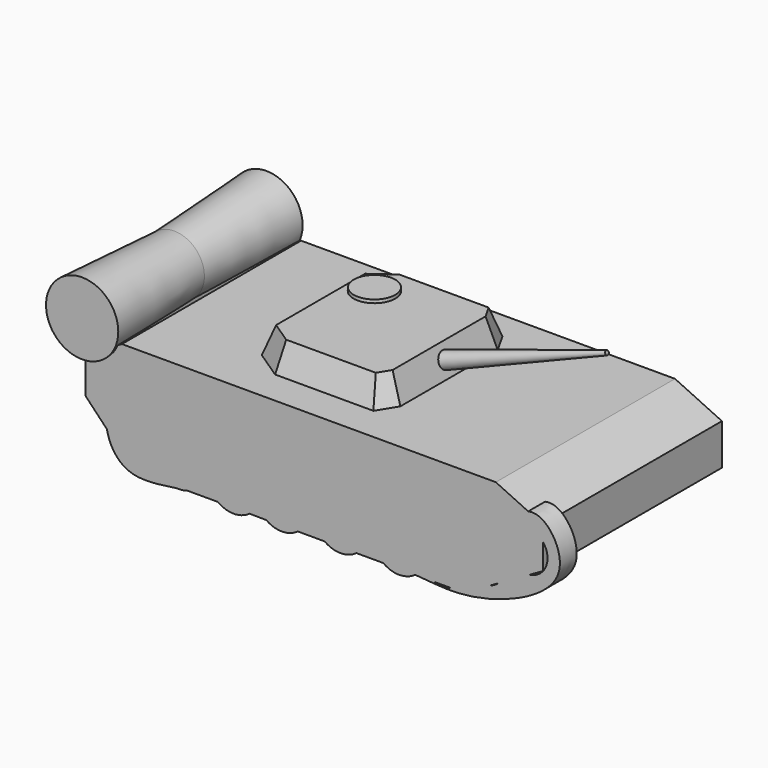
from build123d import *

# Parameters (mm, degrees)
F1_DEPTH  = 35.052
F4_DEPTH  = 8.636
F4_TAPER  = 20
F6_R      = 2.5473797884
F7_DEPTH  = 53.848
F7_TAPER  = 2
F8_R      = 9.4193845987
F9_DEPTH  = 36.068
F9_TAPER  = -3
F11_R     = 6.5429136155
F12_DEPTH = 1.016
F12_TAPER = 3
F14_R     = 6.4058769263
F15_DEPTH = 6.604


with BuildPart() as f1:
    # F0 (on Front) → F1 (new body, symmetric)
    with BuildSketch(Plane.XZ):
        Polygon((-27.3123774678, 0), (0, 0), (75.9697407484, 0), (100.7574498653, 14.0004679561), (100.7574498653, 26.8533546478), (86.0684290528, 33.7388291955), (-30.9846308082, 33.7388291955), (-42.4604192376, 26.8533546478), (-42.4604192376, 15.836596489), align=None)
    extrude(amount=F1_DEPTH, both=True)

    # F8 (on Front) → F9 (join, symmetric)
    with BuildSketch(Plane.XZ):
        with Locations((-42.62271896, 37.4420583248)):
            Circle(F8_R)
    extrude(amount=F9_DEPTH, both=True, taper=F9_TAPER)

    # F14 (on offset) → F15 (join)
    with BuildSketch(Plane.XZ.offset(35.052)):
        with BuildLine():
            ThreePointArc((-18.2914277318, 11.5336464741), (-18.238567493, 11.0237022138), (-18.2209195306, 10.5113293976))
            ThreePointArc((-18.2209195306, 10.5113293976), (-18.690216693, 7.9095667226), (-20.0389570113, 5.6357355069))
            ThreePointArc((-20.0389570113, 5.6357355069), (-17.8768605229, 1.5281653135), (-13.6524536622, -0.3956800012))
            add(Edge.make_bspline(
                [(-10.5050824736, 0), (-11.5477199799, -0.1099032554), (-12.6000289403, -0.2485209166), (-13.6524536622, -0.3956800012)],
                knots=[0.8894547449, 0.8894547449, 0.8894547449, 0.8894547449, 0.898296643, 0.898296643, 0.898296643, 0.898296643], degree=3))
            ThreePointArc((-10.5050824736, 0), (-7.0773531131, 2.6258490959), (-5.7778356714, 6.7435749806))
            ThreePointArc((-5.7778356714, 6.7435749806), (-10.3869168212, 13.4431042769), (-18.2914277318, 11.5336464741))
        make_face()
        with BuildLine():
            ThreePointArc((-20.0389570113, 5.6357355069), (-32.8074565022, 12.6268435661), (-18.2914277318, 11.5336464741))
            ThreePointArc((-18.2914277318, 11.5336464741), (-10.3869168212, 13.4431042769), (-5.7778356714, 6.7435749806))
            ThreePointArc((-5.7778356714, 6.7435749806), (-7.0773531131, 2.6258490959), (-10.5050824736, 0))
            add(Edge.make_bspline(
                [(-1.4377133298, 0.3632930094), (-4.360674288, 0.4004144231), (-7.3897049606, 0.3283884651), (-10.5050824736, 0)],
                knots=[0.8630353512, 0.8630353512, 0.8630353512, 0.8630353512, 0.8894547449, 0.8894547449, 0.8894547449, 0.8894547449], degree=3))
            ThreePointArc((-1.4377133298, 0.3632930094), (-1.1320375241, 13.372378396), (11.5408509223, 10.4181206688))
            ThreePointArc((11.5408509223, 10.4181206688), (20.9600888035, 14.9107300047), (27.4564847059, 6.7435749806))
            ThreePointArc((27.4564847059, 6.7435749806), (26.5572949313, 2.966608588), (24.0526490745, 0))
            add(Edge.make_bspline(
                [(32.4903987489, -0.0193167116), (29.5866199223, -0.0057281236), (26.7519183568, 0.012216448), (24.0526490745, 0)],
                knots=[0.7505457387, 0.7505457387, 0.7505457387, 0.7505457387, 0.7777542378, 0.7777542378, 0.7777542378, 0.7777542378], degree=3))
            ThreePointArc((32.4903987489, -0.0193167116), (33.6507739321, 14.2190238146), (45.8242892928, 6.7435749806))
            ThreePointArc((45.8242892928, 6.7435749806), (44.9250995182, 2.966608588), (42.4204536614, 0))
            add(Edge.make_bspline(
                [(50.6332553293, 0.1512836344), (47.927415051, 0.1101522639), (45.1762033046, 0.036614238), (42.4204536614, 0)],
                knots=[0.6948509829, 0.6948509829, 0.6948509829, 0.6948509829, 0.720052008, 0.720052008, 0.720052008, 0.720052008], degree=3))
            ThreePointArc((50.6332553293, 0.1512836344), (50.5277699262, 13.2516481983), (63.32628389, 10.4536633528))
            ThreePointArc((63.32628389, 10.4536633528), (69.0279887166, 13.9055593882), (75.1095131316, 11.1779074751))
            ThreePointArc((75.1095131316, 11.1779074751), (82.0466679625, 18.5321466628), (89.2645921606, 11.4532681182))
            ThreePointArc((89.2645921606, 11.4532681182), (84.513834766, 4.7672305336), (76.6369867203, 7.0537255085))
            ThreePointArc((76.6369867203, 7.0537255085), (76.6420160513, 6.8986864896), (76.6436927562, 6.7435749806))
            ThreePointArc((76.6436927562, 6.7435749806), (71.3938787613, -0.1686991502), (63.32628389, 3.0334866085))
            ThreePointArc((63.32628389, 3.0334866085), (62.2387569182, 1.3648978533), (60.788254523, 0))
            add(Edge.make_bspline(
                [(-35.5579517782, 13.3371446282), (-34.5184446926, 17.9286186225), (-26.3512458362, 25.383448883), (-15.4597608895, 14.7250766477), (0.0686718679, 20.4326772039), (15.8560525983, 17.8310843141), (28.9072902188, 16.8316877811), (46.8073326751, 17.4266330572), (63.7497315728, 16.0582979772), (85.5235545067, 21.172510386), (99.3038248874, 34.2444686992), (113.1382509082, 11.3105872038), (78.7221199692, -2.6913634642), (66.6651528526, -0.3678101121), (60.788254523, 0)],
                knots=[0, 0, 0, 0, 0.0472697059, 0.0940487795, 0.1468349219, 0.2003618261, 0.2493162293, 0.3055194392, 0.3617226461, 0.4256051466, 0.4773681285, 0.5298011539, 0.6035992514, 0.6623497839, 0.6623497839, 0.6623497839, 0.6623497839], degree=3))
            add(Edge.make_bspline(
                [(-13.6524536622, -0.3956800012), (-19.6587209768, -1.2355280026), (-31.7717668805, -3.4889197494), (-36.6848129863, 8.3598298949), (-35.5579517782, 13.3371446282)],
                knots=[0.898296643, 0.898296643, 0.898296643, 0.898296643, 0.9487580232, 1, 1, 1, 1], degree=3))
            ThreePointArc((-13.6524536622, -0.3956800012), (-17.8768605229, 1.5281653135), (-20.0389570113, 5.6357355069))
        make_face()
        with Locations((95.8424806595, 18.0468373001)):
            Circle(F14_R, mode=Mode.SUBTRACT)
        with BuildLine():
            add(Edge.make_bspline(
                [(-10.5050824736, 0), (-11.5477199799, -0.1099032554), (-12.6000289403, -0.2485209166), (-13.6524536622, -0.3956800012)],
                knots=[0.8894547449, 0.8894547449, 0.8894547449, 0.8894547449, 0.898296643, 0.898296643, 0.898296643, 0.898296643], degree=3))
            ThreePointArc((-13.6524536622, -0.3956800012), (-12.0566229362, -0.3739897919), (-10.5050824736, 0))
        make_face()
        with BuildLine():
            add(Edge.make_bspline(
                [(8.9873047473, 0), (5.7036984444, 0.0999626727), (2.2158534233, 0.3168929498), (-1.4377133298, 0.3632930094)],
                knots=[0.8300123242, 0.8300123242, 0.8300123242, 0.8300123242, 0.8630353512, 0.8630353512, 0.8630353512, 0.8630353512], degree=3))
            ThreePointArc((-1.4377133298, 0.3632930094), (3.7114293188, -1.6367087735), (8.9873047473, 0))
        make_face()
        with BuildLine():
            ThreePointArc((11.5408509223, 10.4181206688), (-1.1320375241, 13.372378396), (-1.4377133298, 0.3632930094))
            add(Edge.make_bspline(
                [(8.9873047473, 0), (5.7036984444, 0.0999626727), (2.2158534233, 0.3168929498), (-1.4377133298, 0.3632930094)],
                knots=[0.8300123242, 0.8300123242, 0.8300123242, 0.8300123242, 0.8630353512, 0.8630353512, 0.8630353512, 0.8630353512], degree=3))
            ThreePointArc((8.9873047473, 0), (10.4493946476, 1.3803241862), (11.5408509223, 3.0690292925))
            ThreePointArc((11.5408509223, 3.0690292925), (10.6924847059, 6.7435749806), (11.5408509223, 10.4181206688))
        make_face()
        with BuildLine():
            add(Edge.make_bspline(
                [(60.788254523, 0), (57.5371139135, 0.2034750858), (54.1229170875, 0.2043298441), (50.6332553293, 0.1512836344)],
                knots=[0.6623497839, 0.6623497839, 0.6623497839, 0.6623497839, 0.6948509829, 0.6948509829, 0.6948509829, 0.6948509829], degree=3))
            ThreePointArc((60.788254523, 0), (62.2387569182, 1.3648978533), (63.32628389, 3.0334866085))
            ThreePointArc((63.32628389, 3.0334866085), (62.2926927562, 6.7435749806), (63.32628389, 10.4536633528))
            ThreePointArc((63.32628389, 10.4536633528), (50.5277699262, 13.2516481983), (50.6332553293, 0.1512836344))
        make_face()
        with BuildLine():
            ThreePointArc((50.6332553293, 0.1512836344), (55.6852335483, -1.6374950482), (60.788254523, 0))
            add(Edge.make_bspline(
                [(60.788254523, 0), (57.5371139135, 0.2034750858), (54.1229170875, 0.2043298441), (50.6332553293, 0.1512836344)],
                knots=[0.6623497839, 0.6623497839, 0.6623497839, 0.6623497839, 0.6948509829, 0.6948509829, 0.6948509829, 0.6948509829], degree=3))
        make_face()
        with BuildLine():
            ThreePointArc((27.4564847059, 6.7435749806), (20.9600888035, 14.9107300047), (11.5408509223, 10.4181206688))
            ThreePointArc((11.5408509223, 10.4181206688), (12.1740912442, 8.6291364129), (12.3888377414, 6.7435749806))
            ThreePointArc((12.3888377414, 6.7435749806), (12.1740912442, 4.8580135484), (11.5408509223, 3.0690292925))
            ThreePointArc((11.5408509223, 3.0690292925), (12.6745379692, 1.3307563279), (14.2005443452, -0.0757086592))
            add(Edge.make_bspline(
                [(24.0526490745, 0), (20.6486292111, -0.015406033), (17.4599935999, -0.0787785369), (14.2005443452, -0.0757086592)],
                knots=[0.7777542378, 0.7777542378, 0.7777542378, 0.7777542378, 0.8120665875, 0.8120665875, 0.8120665875, 0.8120665875], degree=3))
            ThreePointArc((24.0526490745, 0), (26.5572949313, 2.966608588), (27.4564847059, 6.7435749806))
        make_face()
        with BuildLine():
            ThreePointArc((11.5408509223, 3.0690292925), (10.4493946476, 1.3803241862), (8.9873047473, 0))
            add(Edge.make_bspline(
                [(14.2005443452, -0.0757086592), (12.495816486, -0.0741030793), (10.7717182259, -0.0543228158), (8.9873047473, 0)],
                knots=[0.8120665875, 0.8120665875, 0.8120665875, 0.8120665875, 0.8300123242, 0.8300123242, 0.8300123242, 0.8300123242], degree=3))
            ThreePointArc((14.2005443452, -0.0757086592), (12.6745379692, 1.3307563279), (11.5408509223, 3.0690292925))
        make_face()
        with BuildLine():
            add(Edge.make_bspline(
                [(24.0526490745, 0), (20.6486292111, -0.015406033), (17.4599935999, -0.0787785369), (14.2005443452, -0.0757086592)],
                knots=[0.7777542378, 0.7777542378, 0.7777542378, 0.7777542378, 0.8120665875, 0.8120665875, 0.8120665875, 0.8120665875], degree=3))
            ThreePointArc((14.2005443452, -0.0757086592), (19.1388944197, -1.6381775443), (24.0526490745, 0))
        make_face()
        with BuildLine():
            add(Edge.make_bspline(
                [(42.4204536614, 0), (39.0859429569, -0.0443039407), (35.744788104, -0.0345460244), (32.4903987489, -0.0193167116)],
                knots=[0.720052008, 0.720052008, 0.720052008, 0.720052008, 0.7505457387, 0.7505457387, 0.7505457387, 0.7505457387], degree=3))
            ThreePointArc((42.4204536614, 0), (44.9250995182, 2.966608588), (45.8242892928, 6.7435749806))
            ThreePointArc((45.8242892928, 6.7435749806), (33.6507739321, 14.2190238146), (32.4903987489, -0.0193167116))
        make_face()
        with BuildLine():
            ThreePointArc((32.4903987489, -0.0193167116), (37.4585945773, -1.6384091602), (42.4204536614, 0))
            add(Edge.make_bspline(
                [(42.4204536614, 0), (39.0859429569, -0.0443039407), (35.744788104, -0.0345460244), (32.4903987489, -0.0193167116)],
                knots=[0.720052008, 0.720052008, 0.720052008, 0.720052008, 0.7505457387, 0.7505457387, 0.7505457387, 0.7505457387], degree=3))
        make_face()
    extrude(amount=-F15_DEPTH)


with BuildPart() as f4:
    # F3 (on offset) → F4 (new body)
    with BuildSketch(Plane.XY.offset(34.2468291955)):
        Polygon((0, 19.049808383), (0, 0), (0, -19.05), (8.9511210099, -25.0172279775), (39.7062413394, -25.0172279775), (43.3784909546, -19.05), (43.3784909546, 19.049808383), (39.7062413394, 25.4762507975), (8.9511210099, 25.4762507975), align=None)
    extrude(amount=F4_DEPTH, taper=F4_TAPER)

    # F11 (on offset) → F12 (join)
    with BuildSketch(Plane.XY.offset(42.8828291955)):
        with Locations((10.6214676052, 11.7682609707)):
            Circle(F11_R)
    extrude(amount=F12_DEPTH, taper=F12_TAPER)


with BuildPart() as f7:
    # F6 (on offset) → F7 (new body)
    with BuildSketch(Plane(origin=(49.788254041, 0, 18.121442487), x_dir=(0, 1, 0), z_dir=(0.9396926208, 0, 0.3420201433))):
        with Locations((0, 22.1577808261)):
            Circle(F6_R)
    extrude(amount=F7_DEPTH, taper=F7_TAPER)


solid = Compound([f1.part, f4.part, f7.part])
